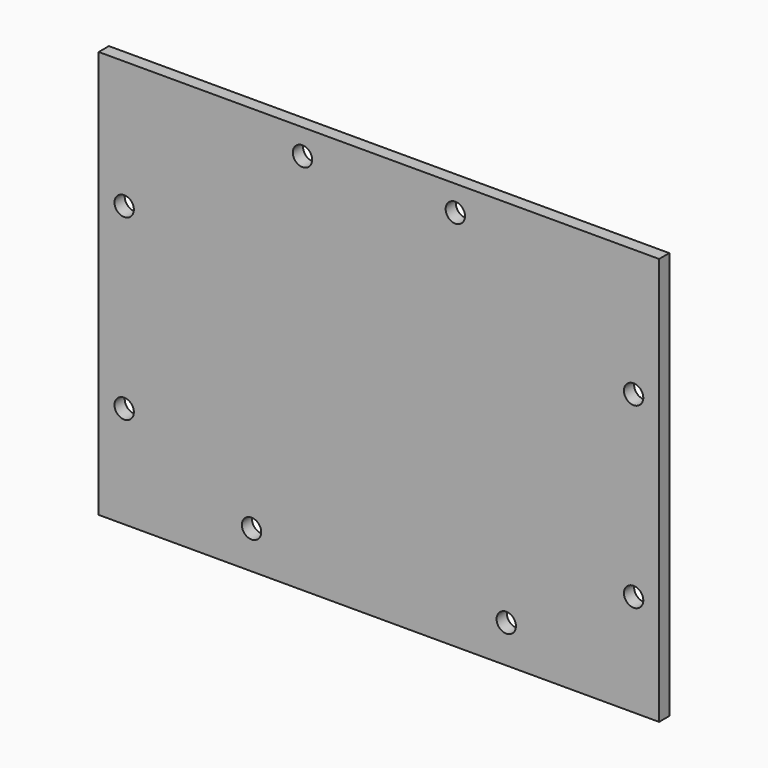
from build123d import *

# Parameters (mm, degrees)
F0_W     = 139.7
F0_H     = 101.6
F1_DEPTH = 1.5875
F2_R     = 2.413
F3_DEPTH = 3.175
F4_R     = 2.413
F5_DEPTH = 3.175
F6_R     = 2.413
F7_DEPTH = 3.175


with BuildPart() as f1:
    # F0 (on Front) → F1 (new body, symmetric)
    with BuildSketch(Plane.XZ):
        Rectangle(F0_W, F0_H)
    extrude(amount=F1_DEPTH, both=True)

    # F2 (on face) → F3 (cut, through all)
    with BuildSketch(Plane.XZ.offset(1.5875)):
        with Locations((-19.05, 44.45)):
            Circle(F2_R)
        with Locations((19.05, 44.45)):
            Circle(F2_R)
    extrude(amount=-F3_DEPTH, mode=Mode.SUBTRACT)

    # F4 (on face) → F5 (cut, through all)
    with BuildSketch(Plane.XZ.offset(1.5875)):
        with Locations((-31.75, -41.402)):
            Circle(F4_R)
        with Locations((31.75, -41.402)):
            Circle(F4_R)
    extrude(amount=-F5_DEPTH, mode=Mode.SUBTRACT)

    # F6 (on face) → F7 (cut, through all)
    with BuildSketch(Plane.XZ.offset(1.5875)):
        with Locations((-63.5, -25.4)):
            Circle(F6_R)
        with Locations((-63.5, 19.05)):
            Circle(F6_R)
        with Locations((63.5, 19.05)):
            Circle(F6_R)
        with Locations((63.5, -25.4)):
            Circle(F6_R)
    extrude(amount=-F7_DEPTH, mode=Mode.SUBTRACT)


solid = f1.part
